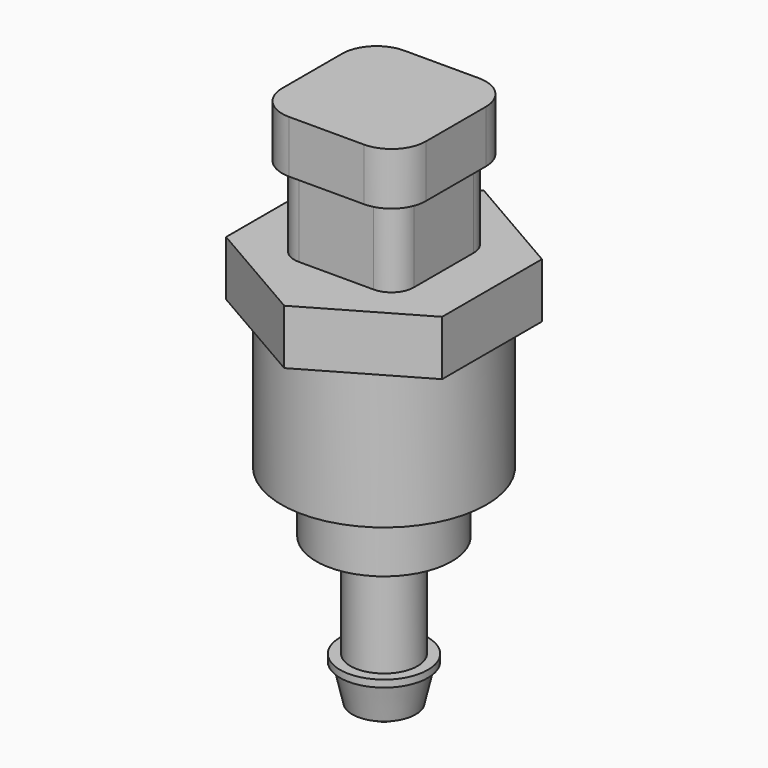
from build123d import *

# Parameters (mm, degrees)
F0_W      = 21.209
F0_H      = 21.209
F1_DEPTH  = 7.747
F2_R      = 5.08
F4_DEPTH  = 11.811
F6_DEPTH  = 8.1026
F7_R      = 15.113
F8_DEPTH  = 20.32
F9_R      = 10
F10_DEPTH = 9.017
F11_R     = 4.953
F12_DEPTH = 15.24
F13_R     = 6.477
F14_DEPTH = 1.0414


with BuildPart() as f1:
    # F0 (on Top) → F1 (new body)
    with BuildSketch(Plane.XY):
        Rectangle(F0_W, F0_H)
    extrude(amount=-F1_DEPTH)

    # F2
    f2_edges = [f1.edges().sort_by_distance(p)[0] for p in [
        (10.6045, -10.6045, -3.8735),
        (-10.6045, -10.6045, -3.8735),
        (-10.6045, 10.6045, -3.8735),
        (10.6045, 10.6045, -3.8735),
    ]]
    fillet(f2_edges, radius=F2_R)

    # F3 (on face) → F4 (join)
    with BuildSketch(Plane(origin=(0, 0, -7.747), x_dir=(1, 0, 0), z_dir=(0, 0, -1))):
        with BuildLine():
            Line((8.8138, -5.5245), (8.8138, 5.5245))
            ThreePointArc((8.8138, 5.5245), (7.850386, 7.850386), (5.5245, 8.8138))
            Line((5.5245, 8.8138), (-5.5245, 8.8138))
            ThreePointArc((-5.5245, 8.8138), (-7.850386, 7.850386), (-8.8138, 5.5245))
            Line((-8.8138, 5.5245), (-8.8138, -5.5245))
            ThreePointArc((-8.8138, -5.5245), (-7.850386, -7.850386), (-5.5245, -8.8138))
            Line((-5.5245, -8.8138), (5.5245, -8.8138))
            ThreePointArc((5.5245, -8.8138), (7.850386, -7.850386), (8.8138, -5.5245))
        make_face()
    extrude(amount=F4_DEPTH)

    # F5 (on face) → F6 (join)
    with BuildSketch(Plane(origin=(0, 0, -19.558), x_dir=(1, 0, 0), z_dir=(0, 0, -1))):
        Polygon((15.9385, -9.202097), (15.9385, 9.202097), (0, 18.404195), (-15.9385, 9.202097), (-15.9385, -9.202097), (0, -18.404195), align=None)
    extrude(amount=F6_DEPTH)

    # F7 (on face) → F8 (join)
    with BuildSketch(Plane(origin=(0, 0, -27.6606), x_dir=(1, 0, 0), z_dir=(0, 0, -1))):
        Circle(F7_R)
    extrude(amount=F8_DEPTH)

    # F9 (on face) → F10 (join)
    with BuildSketch(Plane(origin=(0, 0, -47.9806), x_dir=(1, 0, 0), z_dir=(0, 0, -1))):
        Circle(F9_R)
    extrude(amount=F10_DEPTH)

    # F11 (on face) → F12 (join)
    with BuildSketch(Plane(origin=(0, 0, -56.9976), x_dir=(1, 0, 0), z_dir=(0, 0, -1))):
        Circle(F11_R)
    extrude(amount=F12_DEPTH)

    # F13 (on face) → F14 (join)
    with BuildSketch(Plane(origin=(0, 0, -72.2376), x_dir=(1, 0, 0), z_dir=(0, 0, -1))):
        Circle(F13_R)
    extrude(amount=F14_DEPTH)

    # F15 (on Front) → F16 (revolve)
    with BuildSketch(Plane.XZ):
        Polygon((5.9055, -73.279), (0, -73.279), (0, -80.4418), (1.27, -80.4418), (4.6736, -78.613), align=None)
    revolve(axis=Axis((0, 0, -76.8604), (0, 0, -1)))


solid = f1.part
